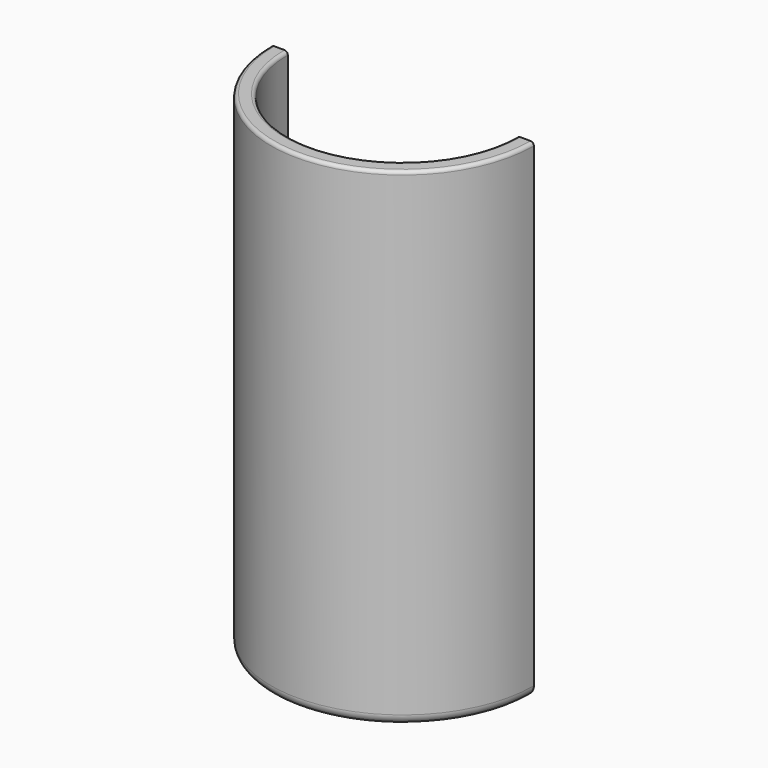
from build123d import *

# Parameters (mm, degrees)
F1_ANGLE = 180


with BuildPart() as f1:
    # F0 (on Front) → F1 (revolve)
    with BuildSketch(Plane.XZ):
        with BuildLine():
            ThreePointArc((39, 42.814617), (38.707107, 43.521724), (38, 43.814617))
            Line((38, 43.814617), (35, 43.814617))
            ThreePointArc((35, 43.814617), (34.292893, 43.521724), (34, 42.814617))
            Line((34, 42.814617), (34, -40.185383))
            ThreePointArc((34, -40.185383), (33.707107, -40.89249), (33, -41.185383))
            Line((33, -41.185383), (0, -41.185383))
            Line((0, -41.185383), (0, -46.185383))
            Line((0, -46.185383), (32, -46.185383))
            ThreePointArc((32, -46.185383), (33.414214, -46.77117), (34, -48.185383))
            Line((34, -48.185383), (34, -94.185383))
            ThreePointArc((34, -94.185383), (33.414214, -95.599597), (32, -96.185383))
            Line((32, -96.185383), (0, -96.185383))
            Line((0, -96.185383), (0, -101.185383))
            Line((0, -101.185383), (36, -101.185383))
            ThreePointArc((36, -101.185383), (38.12132, -100.306703), (39, -98.185383))
            Line((39, -98.185383), (39, 42.814617))
        make_face()
    revolve(axis=Axis((0, 0, -39.313186), (0, 0, -1)), revolution_arc=F1_ANGLE)


solid = f1.part
